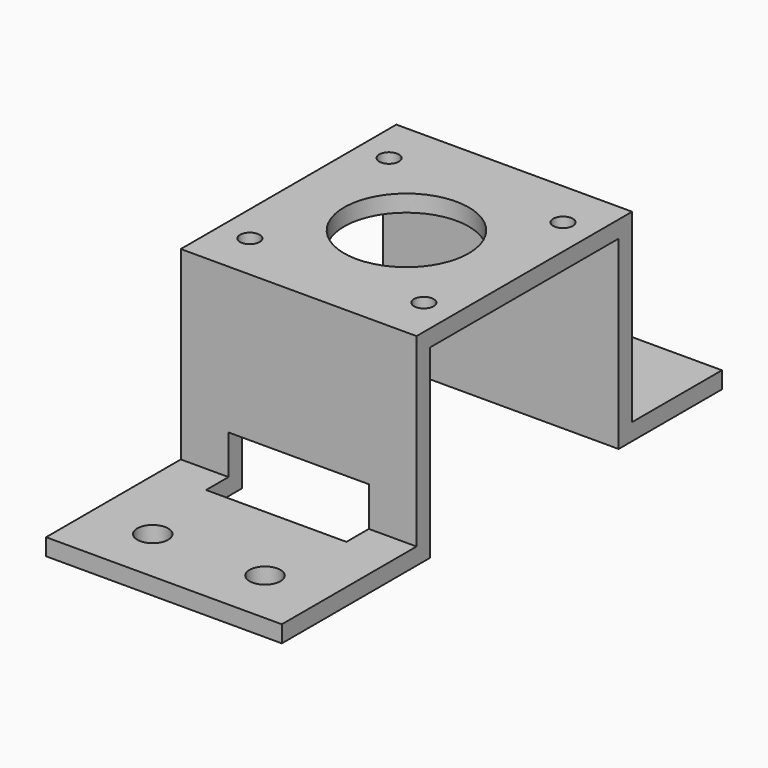
from build123d import *

# Parameters (mm, degrees)
PAD044_DEPTH    = 42
SKETCH127_R     = 1.75
SKETCH127_R_2   = 11.1
POCKET039_DEPTH = 36.001
SKETCH128_R     = 2.75
HOLE027_DEPTH   = 25
SKETCH130_W     = 25
SKETCH130_H     = 10
POCKET040_DEPTH = 13


with BuildPart() as part:
    # Sketch124 → Pad044 (new body)
    with BuildSketch(Plane.YZ):
        Polygon((-32, 10), (-32, 43), (10, 43), (10, 10), (33, 10), (33, 13), (13, 13), (13, 46), (-35, 46), (-35, 13), (-65, 13), (-65, 10), align=None)
    extrude(amount=PAD044_DEPTH)

    # Sketch127 (on Face8 of Pad044) → Pocket039 (cut, through all)
    with BuildSketch(Plane(origin=(0, 0, 46), x_dir=(0, -1, 0), z_dir=(0, 0, 1))):
        with Locations((-4.5, 36.5)):
            Circle(SKETCH127_R)
        with Locations((-4.5, 5.5)):
            Circle(SKETCH127_R)
        with Locations((26.5, 36.5)):
            Circle(SKETCH127_R)
        with Locations((26.5, 5.5)):
            Circle(SKETCH127_R)
        with Locations((11, 21)):
            Circle(SKETCH127_R_2)
    extrude(amount=-POCKET039_DEPTH, mode=Mode.SUBTRACT)

    # Sketch128 (on Face19 of Pocket039) → Hole027 (cut)
    with BuildSketch(Plane(origin=(0, 0, 13), x_dir=(0, -1, 0), z_dir=(0, 0, 1))):
        with Locations((55, 31)):
            Circle(SKETCH128_R)
        with Locations((55, 11)):
            Circle(SKETCH128_R)
    extrude(amount=-HOLE027_DEPTH, mode=Mode.SUBTRACT)

    # Sketch130 → Pocket040 (cut)
    with BuildSketch(Plane.XZ.offset(40)):
        with Locations((21, 15)):
            Rectangle(SKETCH130_W, SKETCH130_H)
    extrude(amount=-POCKET040_DEPTH, mode=Mode.SUBTRACT)


with BuildPart() as part_1:
    # Body019 placement: moved
    add(part.part.moved(Location((-21, 0, 0))))


solid = part_1.part
